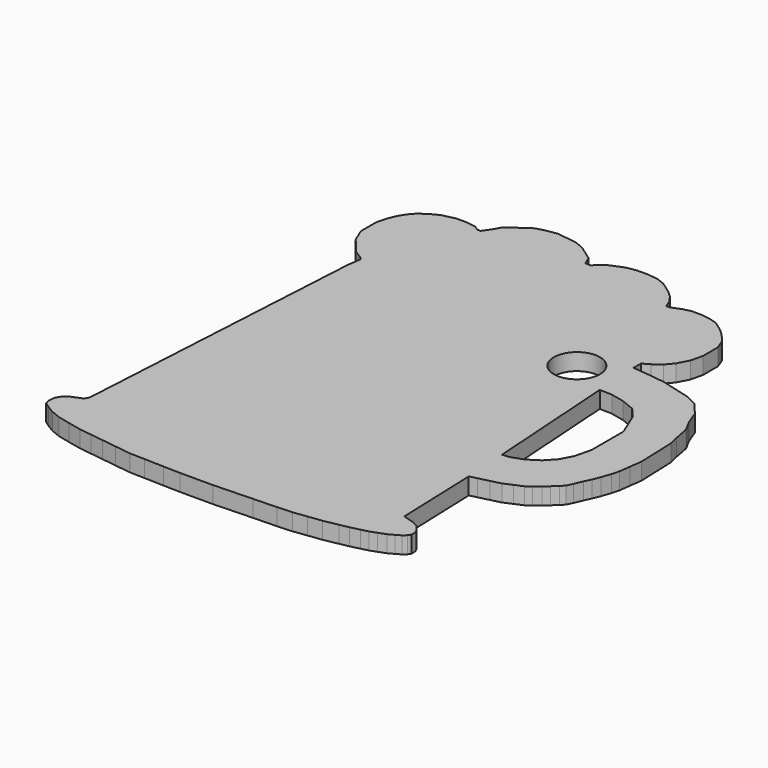
from build123d import *

# Parameters (mm, degrees)
F0_R     = 2.75
F1_DEPTH = 2


with BuildPart() as f1:
    # F0 (on Top) → F1 (new body)
    with BuildSketch(Plane.XY):
        Polygon((42.614597, 43.575729), (40.474674, 43.801061), (40.474674, 44.904759), (41.289306, 45.377769), (42.235331, 46.061014), (42.997407, 46.954477), (43.680649, 48.268405), (44.023932, 49.729318), (44.023932, 50.649449), (44.023932, 51.944449), (43.5775, 53.083367), (42.691444, 54.156854), (41.847845, 54.906591), (40.794143, 55.656328), (39.760655, 55.963038), (38.738284, 56.099354), (37.5796, 56.099354), (36.625389, 55.877841), (36.011968, 55.622249), (35.398544, 55.400736), (35.096974, 55.400736), (34.725139, 56.293141), (34.122785, 57.161563), (33.357102, 57.842052), (32.042509, 58.77742), (31.030484, 59.166825), (29.802747, 59.330523), (28.542718, 59.330523), (27.281797, 59.132746), (26.350169, 58.744568), (25.505657, 58.392688), (24.732415, 57.754455), (24.507659, 57.438576), (23.805742, 57.438576), (23.38257, 58.454189), (22.428905, 59.132746), (21.566604, 59.746296), (20.461918, 60.19183), (19.297132, 60.347135), (18.092803, 60.507712), (16.778593, 60.307712), (15.680915, 59.992126), (14.727073, 59.330523), (13.943266, 58.78686), (13.211777, 58.18309), (12.717188, 57.316541), (12.371887, 56.831245), (12.102754, 56.452998), (11.70455, 56.452998), (11.181221, 56.82536), (9.885113, 56.998174), (8.770078, 56.998174), (7.202732, 56.627827), (6.197297, 56.099354), (5.286899, 55.467885), (4.67496, 54.779335), (4.109085, 53.843544), (3.745405, 52.941812), (3.43555, 51.734029), (3.43555, 50.828029), (3.43555, 49.455927), (3.745405, 48.712276), (4.102451, 47.855367), (4.868277, 46.927541), (5.71123, 45.906275), (6.588969, 45.375504), (6.958782, 45.046838), (6.732116, 43.34684), (4.67496, 7.491453), (4.382145, 7.007223), (3.745405, 6.741914), (3.021601, 6.440329), (2.510416, 6.018397), (2.181404, 5.474309), (2.084989, 4.751196), (2.186613, 4.115137), (2.862741, 3.634054), (3.745405, 3.100305), (4.911553, 2.629983), (6.412406, 2.274872), (7.980039, 1.934082), (9.45109, 1.737943), (10.984644, 1.53347), (12.690081, 1.306079), (14.643297, 1.04565), (16.432547, 1.003336), (18.755258, 0.929009), (20.764264, 0.881497), (24.674177, 0.881497), (29.284421, 1.04565), (32.075043, 1.127764), (33.867482, 1.224696), (35.480599, 1.434622), (37.137908, 1.644548), (38.817317, 1.964962), (39.922824, 2.181308), (41.015109, 2.450639), (41.856079, 2.658001), (42.635252, 2.945225), (43.519151, 3.276687), (44.177526, 3.632565), (44.729134, 3.952855), (45.129498, 4.308733), (45.343027, 4.646817), (45.323095, 5.206614), (45.049425, 5.767831), (44.637698, 6.263237), (43.964259, 6.642941), (43.391121, 6.814882), (42.72485, 7.02981), (42.517087, 7.130109), (42.161251, 17.123776), (43.045596, 17.341834), (44.277249, 17.645529), (45.452933, 17.935424), (46.488645, 18.385407), (47.477306, 18.81526), (48.072154, 19.273718), (48.74559, 19.818199), (49.340221, 20.31253), (49.963509, 20.892833), (50.379035, 21.322686), (50.726546, 22.042045), (51.13535, 23.003285), (51.511009, 23.798795), (51.864567, 24.671646), (52.240226, 25.77652), (52.483299, 26.682517), (52.659055, 28.000691), (52.860135, 29.508797), (52.695712, 34.126613), (52.405689, 35.302818), (52.055256, 37.139574), (51.341367, 38.460271), (50.695767, 40.152436), (49.438013, 41.668941), (47.999089, 42.388402), (46.350579, 42.830686), (44.521046, 43.321537), align=None)
        Polygon((41.847845, 22.476589), (40.794143, 38.363158), (42.253113, 38.322631), (43.874192, 37.957887), (45.495268, 37.309456), (46.548973, 36.093648), (47.116347, 34.756259), (47.764781, 33.175707), (47.764781, 31.39252), (47.764781, 28.434052), (47.278455, 26.448232), (46.548973, 25.070315), (45.495268, 23.935562), (44.117352, 23.043968), (42.619834, 22.527792), align=None, mode=Mode.SUBTRACT)
        with Locations((36.087643, 40.83737)):
            Circle(F0_R, mode=Mode.SUBTRACT)
    extrude(amount=F1_DEPTH)


solid = f1.part
